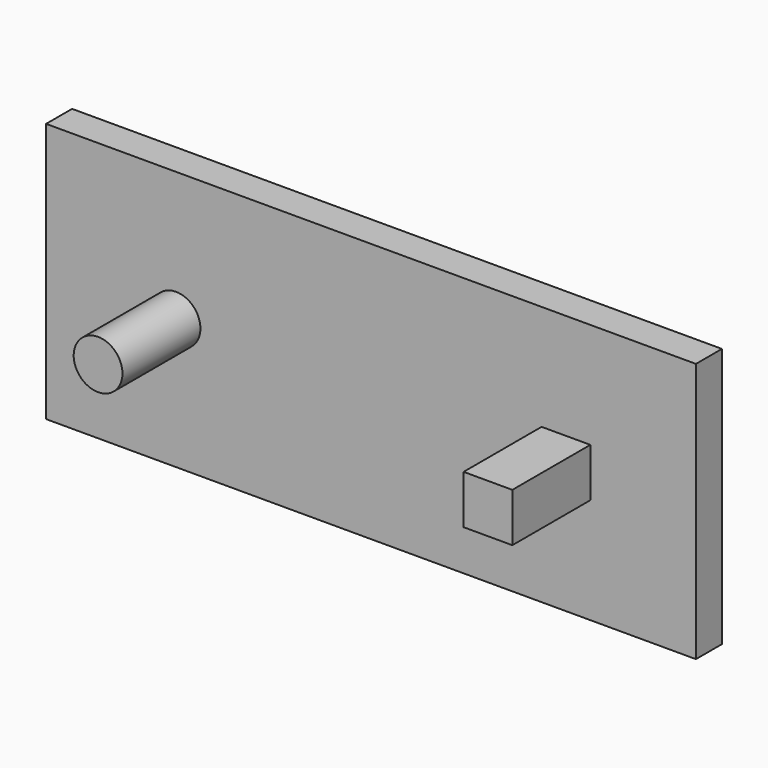
from build123d import *

# Parameters (mm, degrees)
F0_W     = 127
F0_H     = 50.8
F0_R     = 4.7625
F0_W_2   = 9.525
F0_H_2   = 9.525
F1_DEPTH = 6.35
F2_DEPTH = 25.4


with BuildPart() as f1:
    # F0 (on Front) → F1 (new body)
    with BuildSketch(Plane.XZ):
        Rectangle(F0_W, F0_H)
        with Locations((-38.1, 0)):
            Circle(F0_R, mode=Mode.SUBTRACT)
        with Locations((38.1, 0)):
            Rectangle(F0_W_2, F0_H_2, mode=Mode.SUBTRACT)
        with Locations((-38.1, 0)):
            Circle(F0_R)
        with Locations((38.1, 0)):
            Rectangle(F0_W_2, F0_H_2)
    extrude(amount=F1_DEPTH)

    # F0 (on Front) → F2 (join)
    with BuildSketch(Plane.XZ):
        with Locations((38.1, 0)):
            Rectangle(F0_W_2, F0_H_2)
        with Locations((-38.1, 0)):
            Circle(F0_R)
    extrude(amount=F2_DEPTH)


solid = f1.part
